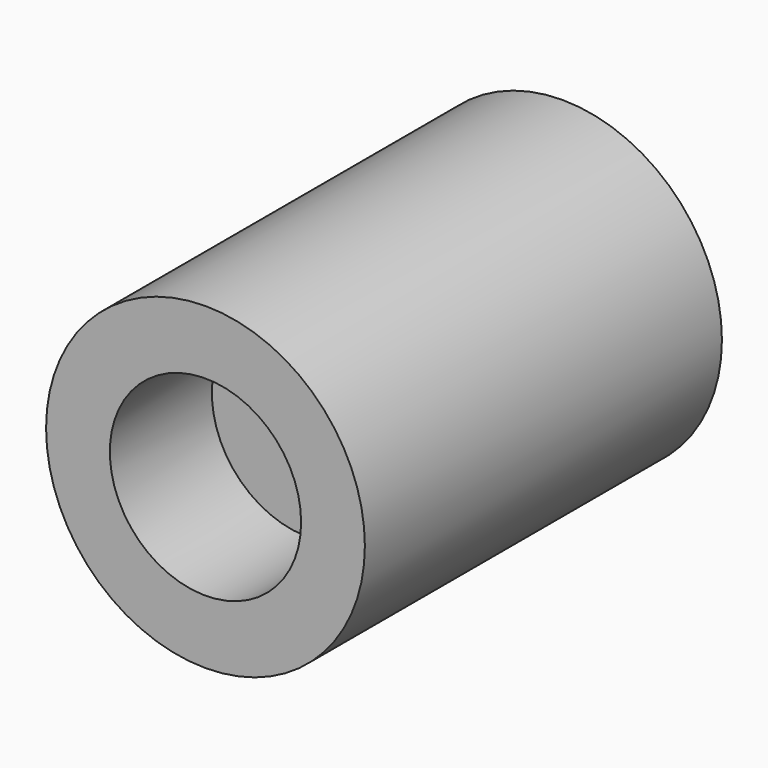
from build123d import *

# Parameters (mm, degrees)
F0_R     = 50
F1_DEPTH = 140
F2_R     = 30
F3_DEPTH = 40
F4_R     = 10
F5_DEPTH = 80


with BuildPart() as f1:
    # F0 (on Front) → F1 (new body)
    with BuildSketch(Plane.XZ):
        Circle(F0_R)
    extrude(amount=-F1_DEPTH)

    # F2 (on face) → F3 (cut)
    with BuildSketch(Plane.XZ):
        Circle(F2_R)
    extrude(amount=-F3_DEPTH, mode=Mode.SUBTRACT)

    # F4 (on face) → F5 (cut)
    with BuildSketch(Plane.XZ):
        Circle(F4_R)
    extrude(amount=-F5_DEPTH, mode=Mode.SUBTRACT)


solid = f1.part
